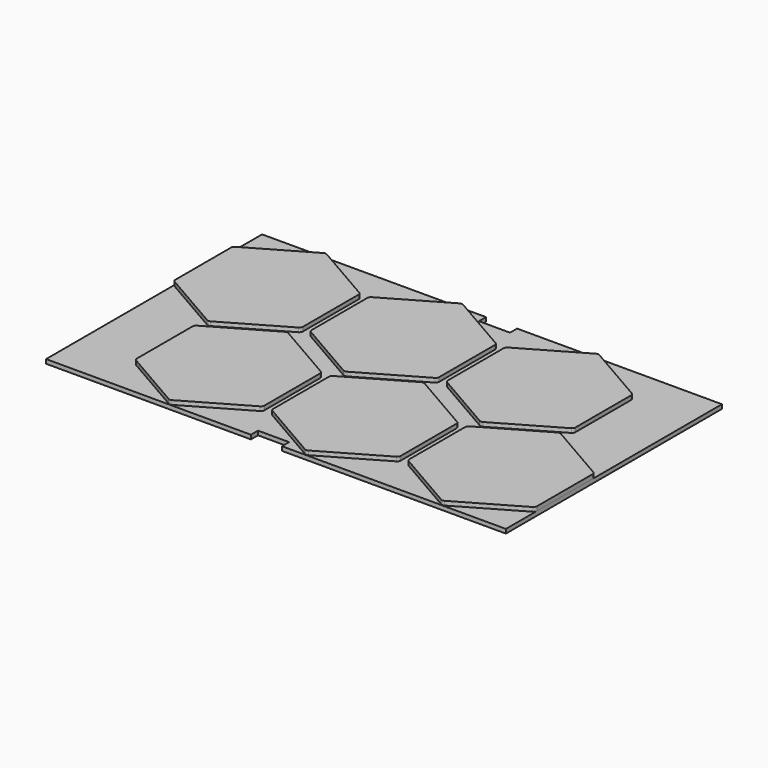
from build123d import *

# Parameters (mm, degrees)
F0_W     = 263.398
F0_H     = 154.686
F1_DEPTH = 2.38125
F3_DEPTH = 2.38125
F2_W     = 17.78
F2_H     = 5.08
F4_R     = 2
F4_2_R   = 2
F4_3_R   = 2
F4_4_R   = 2
F4_5_R   = 2
F4_6_R   = 2
F5_W     = 17.78
F5_H     = 5.08
F6_DEPTH = 4.7635


with BuildPart() as f1:
    # F0 (on Top) → F1 (new body)
    with BuildSketch(Plane.XY):
        with Locations((132.969, -78.613)):
            Rectangle(F0_W, F0_H)
    extrude(amount=F1_DEPTH)


with BuildPart() as f3:
    # F2 (on face) → F3 (new body)
    with BuildSketch(Plane.XY.offset(2.38125)):
        Polygon((37.7825, -1.27), (1.27, -22.3505017038), (1.27, -64.5115051114), (37.7825, -85.5920068151), (74.295, -64.5115051114), (74.295, -22.3505017038), align=None)
    extrude(amount=F3_DEPTH)

    # F4
    f4_edges = [f3.edges().sort_by_distance(p)[0] for p in [
        (37.7825, -85.592007, 3.571875),
        (1.27, -64.511505, 3.571875),
        (74.295, -64.511505, 3.571875),
        (37.7825, -1.27, 3.571875),
        (1.27, -22.350502, 3.571875),
        (74.295, -22.350502, 3.571875),
    ]]
    fillet(f4_edges, radius=F4_R)


with BuildPart() as f3b:
    # F2 (on face) → F3, piece 2 (new body)
    with BuildSketch(Plane.XY.offset(2.38125)):
        Polygon((228.1555, -71.6339931849), (191.643, -92.7144948886), (191.643, -134.8754982962), (228.1555, -155.956), (264.668, -134.8754982962), (264.668, -92.7144948886), align=None)
    extrude(amount=F3_DEPTH)

    # F4#6
    f4_6_edges = [f3b.edges().sort_by_distance(p)[0] for p in [
        (191.643, -134.875498, 3.571875),
        (228.1555, -155.956, 3.571875),
        (264.668, -134.875498, 3.571875),
        (191.643, -92.714495, 3.571875),
        (228.1555, -71.633993, 3.571875),
        (264.668, -92.714495, 3.571875),
    ]]
    fillet(f4_6_edges, radius=F4_6_R)


with BuildPart() as f3c:
    # F2 (on face) → F3, piece 3 (new body)
    with BuildSketch(Plane.XY.offset(2.38125)):
        Polygon((150.0937471951, -71.6339931849), (113.5812471951, -92.7144948886), (113.5812471951, -134.8754982962), (150.0937471951, -155.956), (186.6062471951, -134.8754982962), (186.6062471951, -92.7144948886), align=None)
    extrude(amount=F3_DEPTH)

    # F4#3
    f4_3_edges = [f3c.edges().sort_by_distance(p)[0] for p in [
        (113.581247, -134.875498, 3.571875),
        (150.093747, -155.956, 3.571875),
        (186.606247, -134.875498, 3.571875),
        (113.581247, -92.714495, 3.571875),
        (150.093747, -71.633993, 3.571875),
        (186.606247, -92.714495, 3.571875),
    ]]
    fillet(f4_3_edges, radius=F4_3_R)


with BuildPart() as f3d:
    # F2 (on face) → F3, piece 4 (new body)
    with BuildSketch(Plane.XY.offset(2.38125)):
        Polygon((193.9060056098, -1.27), (157.3935056098, -22.3505017038), (157.3935056098, -64.5115051114), (193.9060056098, -85.5920068151), (230.4185056098, -64.5115051114), (230.4185056098, -22.3505017038), align=None)
    extrude(amount=F3_DEPTH)

    # F4#5
    f4_5_edges = [f3d.edges().sort_by_distance(p)[0] for p in [
        (157.393506, -64.511505, 3.571875),
        (193.906006, -85.592007, 3.571875),
        (230.418506, -64.511505, 3.571875),
        (157.393506, -22.350502, 3.571875),
        (230.418506, -22.350502, 3.571875),
        (193.906006, -1.27, 3.571875),
    ]]
    fillet(f4_5_edges, radius=F4_5_R)


with BuildPart() as f3e:
    # F2 (on face) → F3, piece 5 (new body)
    with BuildSketch(Plane.XY.offset(2.38125)):
        Polygon((72.0319943902, -71.6339931849), (35.5194943902, -92.7144948886), (35.5194943902, -134.8754982962), (72.0319943902, -155.956), (108.5444943902, -134.8754982962), (108.5444943902, -92.7144948886), align=None)
    extrude(amount=F3_DEPTH)

    # F4#2
    f4_2_edges = [f3e.edges().sort_by_distance(p)[0] for p in [
        (35.519494, -134.875498, 3.571875),
        (72.031994, -155.956, 3.571875),
        (108.544494, -134.875498, 3.571875),
        (35.519494, -92.714495, 3.571875),
        (72.031994, -71.633993, 3.571875),
        (108.544494, -92.714495, 3.571875),
    ]]
    fillet(f4_2_edges, radius=F4_2_R)


with BuildPart() as f3f:
    # F2 (on face) → F3, piece 6 (new body)
    with BuildSketch(Plane.XY.offset(2.38125)):
        Polygon((115.8442528049, -1.27), (79.3317528049, -22.3505017038), (79.3317528049, -64.5115051114), (115.8442528049, -85.5920068151), (152.3567528049, -64.5115051114), (152.3567528049, -22.3505017038), align=None)
    extrude(amount=F3_DEPTH)

    # F4#4
    f4_4_edges = [f3f.edges().sort_by_distance(p)[0] for p in [
        (152.356753, -64.511505, 3.571875),
        (79.331753, -64.511505, 3.571875),
        (115.844253, -85.592007, 3.571875),
        (79.331753, -22.350502, 3.571875),
        (115.844253, -1.27, 3.571875),
        (152.356753, -22.350502, 3.571875),
    ]]
    fillet(f4_4_edges, radius=F4_4_R)


with BuildPart() as f3g:
    # F2 (on face) → F3, piece 7 (new body)
    with BuildSketch(Plane.XY.offset(2.38125)):
        with Locations((127.508, -153.416)):
            Rectangle(F2_W, F2_H)
    extrude(amount=F3_DEPTH)


with BuildPart() as f3h:
    # F2 (on face) → F3, piece 8 (new body)
    with BuildSketch(Plane.XY.offset(2.38125)):
        with Locations((138.43, -3.81)):
            Rectangle(F2_W, F2_H)
    extrude(amount=F3_DEPTH)


with BuildPart() as f6_tool:
    # F5 (on face) → F6 (new body, through all)
    with BuildSketch(Plane.XY):
        with Locations((127.508, -153.416)):
            Rectangle(F5_W, F5_H)
        with Locations((138.43, -3.81)):
            Rectangle(F5_W, F5_H)
    extrude(amount=F6_DEPTH)


with BuildPart() as f1_1:
    add(f1.part)

    # F6: cut by f6_tool
    add(f6_tool.part, mode=Mode.SUBTRACT)


with BuildPart() as f3g_1:
    add(f3g.part)

    # F6: cut by f6_tool
    add(f6_tool.part, mode=Mode.SUBTRACT)


with BuildPart() as f3h_1:
    add(f3h.part)

    # F6: cut by f6_tool
    add(f6_tool.part, mode=Mode.SUBTRACT)


solid = Compound([f3.part, f3b.part, f3c.part, f3d.part, f3e.part, f3f.part, f1_1.part])
